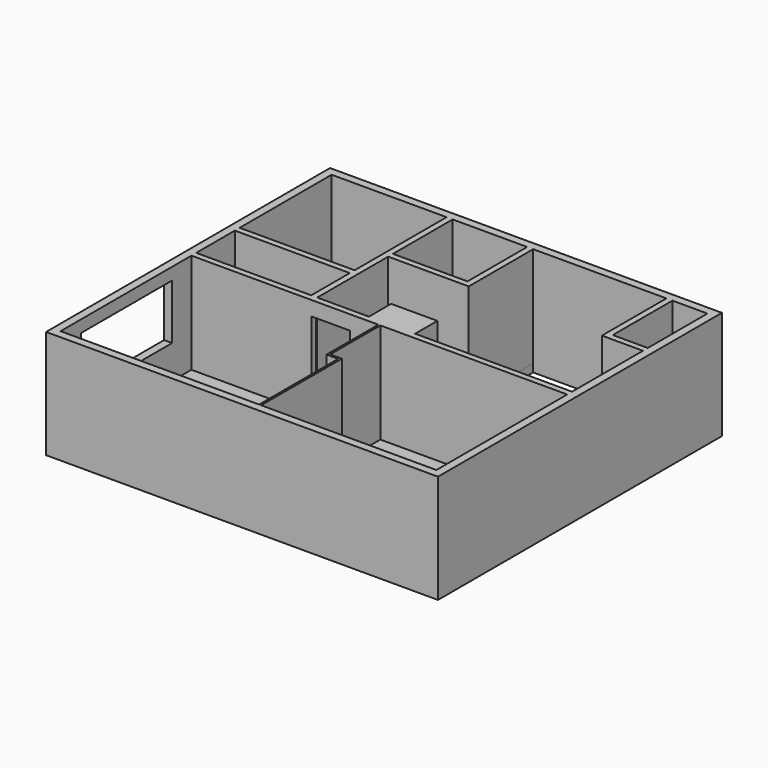
from build123d import *

# Parameters (mm, degrees)
F0_W     = 9750
F0_H     = 8830
F0_W_2   = 2860
F0_H_2   = 1200
F0_W_3   = 871.247029
F0_H_3   = 1855
F1_DEPTH = 2500
F2_W     = 9750
F2_H     = 8830
F2_W_2   = 3313.752971
F2_H_2   = 2005
F3_DEPTH = 200
F4_W     = 965
F4_H     = 2140
F5_DEPTH = 150
F6_W     = 2840
F6_H     = 1370
F7_DEPTH = 200


with BuildPart() as f1:
    # F0 (on Top) → F1 (new body)
    with BuildSketch(Plane.XY):
        with Locations((4875, -4415)):
            Rectangle(F0_W, F0_H)
        Polygon((200, -8630), (200, -4560), (4850, -4560), (4850, -6170), (5140, -6170), (5140, -8630), align=None, mode=Mode.SUBTRACT)
        Polygon((4900, -6120), (4900, -4560), (9550, -4560), (9550, -8630), (5190, -8630), (5190, -6120), align=None, mode=Mode.SUBTRACT)
        with Locations((1630, -3810)):
            Rectangle(F0_W_2, F0_H_2, mode=Mode.SUBTRACT)
        Polygon((200, -3060), (200, -200), (3060, -200), (3060, -1450), (3060, -3060), align=None, mode=Mode.SUBTRACT)
        Polygon((3210, -1300), (3210, -200), (5065, -200), (5065, -2055), (3210, -2055), align=None, mode=Mode.SUBTRACT)
        Polygon((3210, -4410), (3210, -2205), (5215, -2205), (5215, -200), (8528.752971, -200), (8528.752971, -2205), (9550, -2205), (9550, -4410), (5645.150185, -4410), (5645.150185, -3719.030533), (4495.233774, -3719.030533), (4495.233774, -4410), align=None, mode=Mode.SUBTRACT)
        with Locations((9114.376486, -1127.5)):
            Rectangle(F0_W_3, F0_H_3, mode=Mode.SUBTRACT)
    extrude(amount=F1_DEPTH)

    # F2 (on face) → F3 (join)
    with BuildSketch(Plane(origin=(0, 0, 0), x_dir=(1, 0, 0), z_dir=(0, 0, -1))):
        with Locations((4875, 4415)):
            Rectangle(F2_W, F2_H)
        with Locations((6871.876485, 1202.5)):
            Rectangle(F2_W_2, F2_H_2, mode=Mode.SUBTRACT)
    extrude(amount=F3_DEPTH)

    # F4 (on face) → F5 (cut, through all)
    with BuildSketch(Plane.XZ.offset(4560)):
        with Locations((3667.5, 1070)):
            Rectangle(F4_W, F4_H)
    extrude(amount=-F5_DEPTH, mode=Mode.SUBTRACT)

    # F6 (on face) → F7 (cut, through all)
    with BuildSketch(Plane.YZ.offset(200)):
        with Locations((-6580, 1515)):
            Rectangle(F6_W, F6_H)
    extrude(amount=-F7_DEPTH, mode=Mode.SUBTRACT)


solid = f1.part
